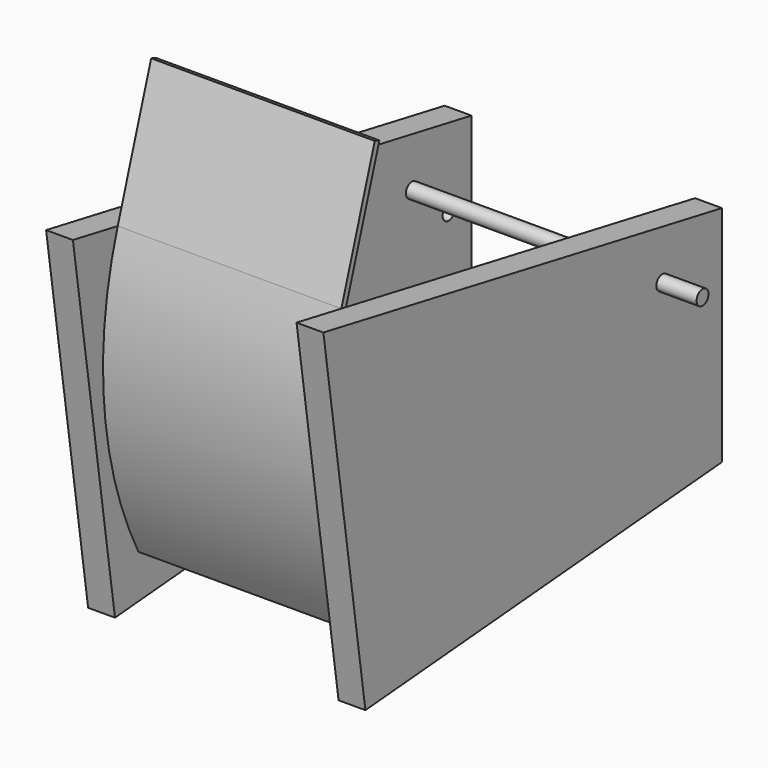
from build123d import *

# Parameters (mm, degrees)
F0_R      = 3.175
F1_DEPTH  = 11.43
F5_DEPTH  = 25.4
F6_D      = 6.35
F6_DEPTH  = 76.2
F6_TIP    = 1.9077324654
F7_D      = 6.35
F7_DEPTH  = 76.2
F7_TIP    = 1.9077324654
F8_D      = 6.35
F8_DEPTH  = 76.2
F8_TIP    = 1.9077324654
F9_D      = 6.35
F9_DEPTH  = 76.2
F9_TIP    = 1.9077324654
F11_DEPTH = 95.25
F12_DEPTH = 76.2


with BuildPart() as f1:
    # F0 (on Right) → F1 (new body)
    with BuildSketch(Plane.YZ):
        Polygon((122.1165703362, -43.8827651219), (122.1165703362, 51.3672348781), (-90.1177801321, 90.9827682114), (-67.7204277456, -59.7624426779), align=None)
        with Locations((109.9245703362, -34.0493256675)):
            Circle(F0_R, mode=Mode.SUBTRACT)
        with Locations((109.9245703362, 20.0526743325)):
            Circle(F0_R, mode=Mode.SUBTRACT)
        with Locations((90.3665703362, 36.3643222504)):
            Circle(F0_R, mode=Mode.SUBTRACT)
        with Locations((90.3665703362, 36.3643222504)):
            Circle(F0_R)
        with Locations((109.9245703362, 20.0526743325)):
            Circle(F0_R)
        with Locations((109.9245703362, -34.0493256675)):
            Circle(F0_R)
    extrude(amount=F1_DEPTH)


with BuildPart() as f1_1:
    # F2: moved
    add(f1.part.moved(Location((47.625, 0, 0))))


with BuildPart() as f3_1:
    # F3: instance of F1
    add(f1_1.part.mirror(Plane.YZ))

    # F4 (on face) → F5 (cut)
    with BuildSketch(Plane(origin=(-59.055, 0, 0), x_dir=(0, -1, 0), z_dir=(-1, 0, 0))):
        with BuildLine():
            ThreePointArc((17.5834296638, -43.8827651219), (-33.2165703362, 6.9172348781), (-84.0165703362, -43.8827651219))
            ThreePointArc((-84.0165703362, -43.8827651219), (-83.9914140751, -45.4812779607), (-83.9159702065, -47.0782076259))
            Line((-83.9159702065, -47.0782076259), (16.2473795848, -55.4567729935))
            ThreePointArc((16.2473795848, -55.4567729935), (17.2483117898, -49.7081983252), (17.5834296638, -43.8827651219))
        make_face()
        with BuildLine():
            Line((17.5834296638, -55.5685322642), (17.5834296638, -43.8827651219))
            ThreePointArc((17.5834296638, -43.8827651219), (17.2483117898, -49.7081983252), (16.2473795848, -55.4567729935))
            Line((16.2473795848, -55.4567729935), (17.5834296638, -55.5685322642))
        make_face()
    extrude(amount=-F5_DEPTH, mode=Mode.SUBTRACT)

    # F6
    with Locations(Plane.YZ):
        with Locations((90.3665703362, 36.3643222504)):
            Hole(F6_D / 2, depth=F6_DEPTH)
            with Locations((0, 0, -(F6_DEPTH + F6_TIP / 2))):  # 118° drill point
                Cone(0, F6_D / 2, F6_TIP, mode=Mode.SUBTRACT)

    # F7
    with Locations(Plane.YZ):
        with Locations((109.9245703362, 20.0526743325)):
            Hole(F7_D / 2, depth=F7_DEPTH)
            with Locations((0, 0, -(F7_DEPTH + F7_TIP / 2))):  # 118° drill point
                Cone(0, F7_D / 2, F7_TIP, mode=Mode.SUBTRACT)

    # F8
    with Locations(Plane.YZ):
        with Locations((109.9245703362, -34.0493256675)):
            Hole(F8_D / 2, depth=F8_DEPTH)
            with Locations((0, 0, -(F8_DEPTH + F8_TIP / 2))):  # 118° drill point
                Cone(0, F8_D / 2, F8_TIP, mode=Mode.SUBTRACT)


with BuildPart() as f1_2:
    add(f1_1.part)

    # F9
    with Locations(Plane(origin=(0, 0, 0), x_dir=(0, 1, 0), z_dir=(-1, 0, 0))):
        with Locations((90.3665703362, -36.3643222504)):
            Hole(F9_D / 2, depth=F9_DEPTH)
            with Locations((0, 0, -(F9_DEPTH + F9_TIP / 2))):  # 118° drill point
                Cone(0, F9_D / 2, F9_TIP, mode=Mode.SUBTRACT)


with BuildPart() as f11:
    # F10 (on face) → F11 (new body)
    with BuildSketch(Plane(origin=(47.625, 0, 0), x_dir=(0, -1, 0), z_dir=(-1, 0, 0))):
        with BuildLine():
            Line((46.0226261079, 141.3909337274), (55.0595276774, 113.1756901692))
            ThreePointArc((55.0595276774, 113.1756901692), (61.2467442889, 100.0992346093), (66.2609327925, 86.5296637591))
            Line((66.2609327925, 86.5296637591), (48.4415836851, 142.1656880364))
            Line((48.4415836851, 142.1656880364), (46.0226261079, 141.3909337274))
        make_face()
        with BuildLine():
            Line((55.0595276774, 113.1756901692), (63.7442887749, 86.0599085345))
            Line((63.7442887749, 86.0599085345), (66.2609327925, 86.5296637591))
            ThreePointArc((66.2609327925, 86.5296637591), (61.2467442889, 100.0992346093), (55.0595276774, 113.1756901692))
        make_face()
        with BuildLine():
            Line((63.7442887749, 86.0599085345), (63.7439748969, 86.0598499462))
            ThreePointArc((63.7439748969, 86.0598499462), (69.5928864987, 61.5174094181), (71.5584296638, 36.3643222504))
            ThreePointArc((71.5584296638, 36.3643222504), (66.8411203346, -2.4357759317), (52.9640480804, -38.9751723676))
            Line((52.9640480804, -38.9751723676), (55.2290606215, -40.1252095237))
            ThreePointArc((55.2290606215, -40.1252095237), (69.3114207434, -3.0269888444), (74.0984296638, 36.3643222504))
            ThreePointArc((74.0984296638, 36.3643222504), (72.1272426646, 61.7512669557), (66.2609327925, 86.5296637591))
            Line((66.2609327925, 86.5296637591), (63.7442887749, 86.0599085345))
        make_face()
    extrude(amount=F11_DEPTH)


with BuildPart() as f12:
    # F0 (on Right) → F12 (new body, symmetric)
    with BuildSketch(Plane.YZ):
        with Locations((90.3665703362, 36.3643222504)):
            Circle(F0_R)
    extrude(amount=F12_DEPTH, both=True)


solid = Compound([f3_1.part, f1_2.part, f11.part, f12.part])
